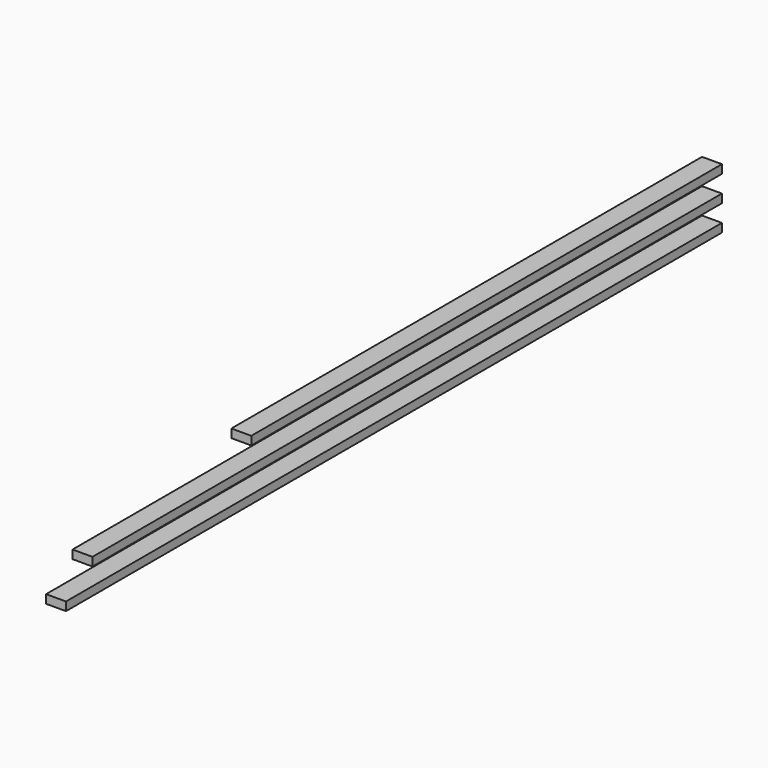
from build123d import *

# Parameters (mm, degrees)
F0_W     = 77
F0_H     = 33
F1_DEPTH = 3172
F2_DEPTH = 3044
F3_DEPTH = 2276


with BuildPart() as f1:
    # F0 (on Front) → F1 (new body)
    with BuildSketch(Plane.XZ):
        with Locations((38.5, 16.5)):
            Rectangle(F0_W, F0_H)
    extrude(amount=F1_DEPTH)


with BuildPart() as f2:
    # F0 (on Front) → F2 (new body)
    with BuildSketch(Plane.XZ):
        with Locations((38.5, 116.5)):
            Rectangle(F0_W, F0_H)
    extrude(amount=F2_DEPTH)


with BuildPart() as f3:
    # F0 (on Front) → F3 (new body)
    with BuildSketch(Plane.XZ):
        with Locations((38.5, 216.5)):
            Rectangle(F0_W, F0_H)
    extrude(amount=F3_DEPTH)


solid = Compound([f1.part, f2.part, f3.part])
